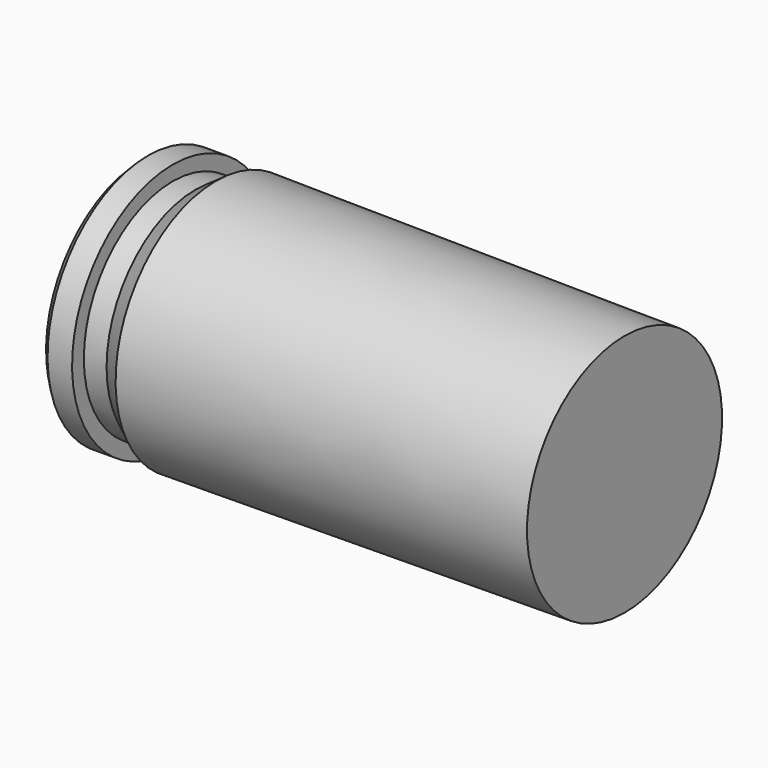
from build123d import *

# Parameters (mm, degrees)
F0_W = 0.9
F0_H = 4.397832


with BuildPart() as f1:
    # F0 (on Front) → F1 (revolve)
    with BuildSketch(Plane.XZ):
        Polygon((16.17, 0), (16.17, 4.825), (0, 4.965), (-0.81, 4.397832), (-0.81, 0), align=None)
        with Locations((-1.26, 2.198916)):
            Rectangle(F0_W, F0_H)
        Polygon((-2.98, 0), (-1.71, 0), (-1.71, 4.397832), (-1.71, 4.98), (-2.68, 4.98), (-2.98, 4.68), align=None)
    revolve(axis=Axis((5.528297, 0, 0), (-1, 0, 0)))


solid = f1.part
